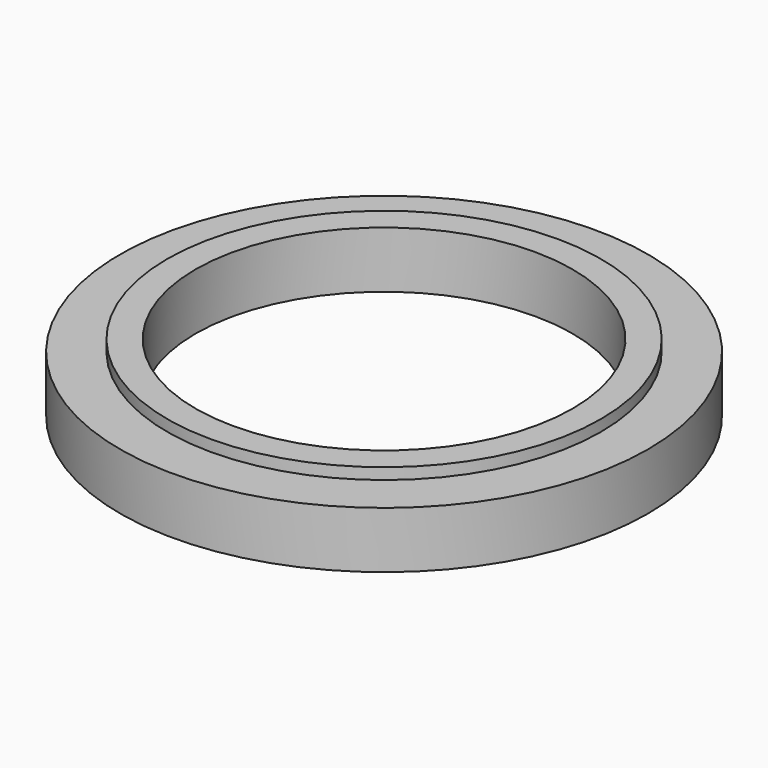
from build123d import *

# Parameters (mm, degrees)
F0_R     = 70
F0_R_2   = 50
F1_DEPTH = 15
F3_R     = 57.5
F3_R_2   = 50
F4_DEPTH = 3
F5_R     = 57.5
F5_R_2   = 50
F6_DEPTH = 3


with BuildPart() as f1:
    # F0 (on Top) → F1 (new body)
    with BuildSketch(Plane.XY):
        Circle(F0_R)
        Circle(F0_R_2, mode=Mode.SUBTRACT)
    extrude(amount=F1_DEPTH)

    # F3 (on face) → F4 (join)
    with BuildSketch(Plane.XY.offset(15)):
        Circle(F3_R)
        Circle(F3_R_2, mode=Mode.SUBTRACT)
    extrude(amount=F4_DEPTH)

    # F5 (on face) → F6 (cut)
    with BuildSketch(Plane(origin=(0, 0, 0), x_dir=(1, 0, 0), z_dir=(0, 0, -1))):
        Circle(F5_R)
        Circle(F5_R_2, mode=Mode.SUBTRACT)
    extrude(amount=-F6_DEPTH, mode=Mode.SUBTRACT)


solid = f1.part
